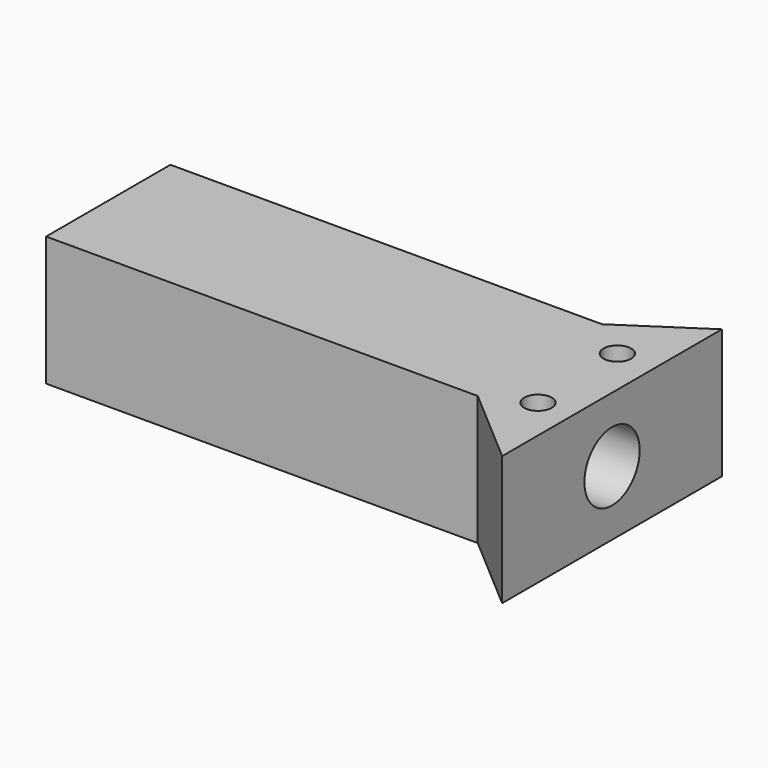
from build123d import *

# Parameters (mm, degrees)
F0_R     = 1.6
F1_DEPTH = 7.5
F2_DEPTH = 50
F3_R     = 4
F4_DEPTH = 59.0844929405


with BuildPart() as f1:
    # F0 (on Top) → F1 (new body, symmetric)
    with BuildSketch(Plane.XY):
        Polygon((-5.0834929405, -4.2403818204), (-5.0834929405, -22.2403818204), (4, -30.0603818204), (4, 1.7596181796), align=None)
        with Locations((0, -19.8643818204)):
            Circle(F0_R, mode=Mode.SUBTRACT)
        with Locations((-0.412, -7.8643818204)):
            Circle(F0_R, mode=Mode.SUBTRACT)
    extrude(amount=F1_DEPTH, both=True)

    # F2 (add): a face of the model
    f2_faces = [f1.faces().sort_by_distance(p)[0] for p in [
        (-5.0834929405, -13.2403818204, 0),
    ]]
    extrude(f2_faces, amount=F2_DEPTH)

    # F3 (on face) → F4 (cut, through all)
    with BuildSketch(Plane.YZ.offset(4)):
        with Locations((-14.1503818204, 0)):
            Circle(F3_R)
    extrude(amount=-F4_DEPTH, mode=Mode.SUBTRACT)


solid = f1.part
